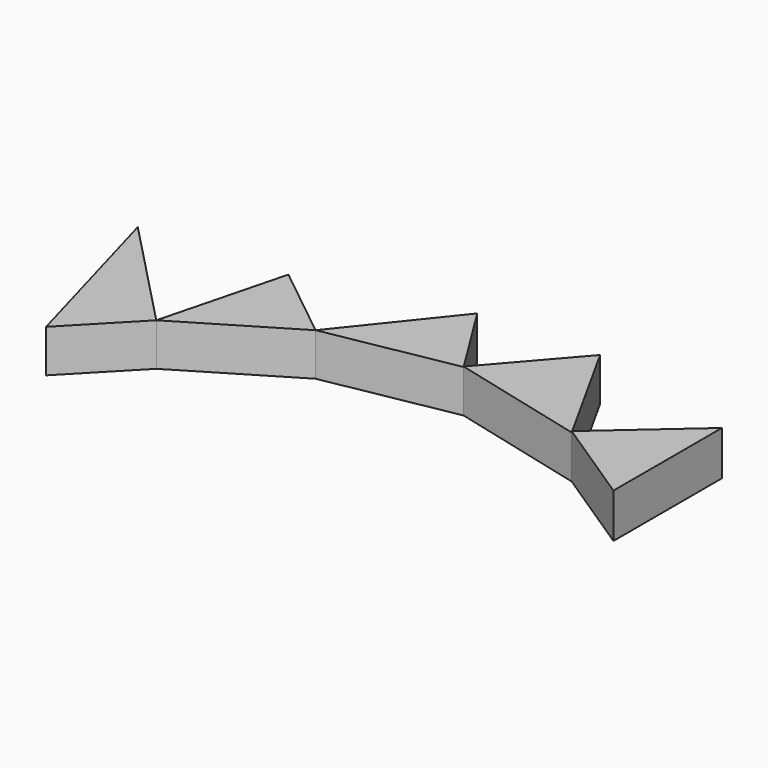
from build123d import *

# Parameters (mm, degrees)
F1_DEPTH = 6.54674
F2_DEPTH = 6.54673
F3_DEPTH = 6.54673
F4_DEPTH = 6.61096
F5_DEPTH = 6.79529


with BuildPart() as f1:
    # F0 (on Top) → F1 (new body)
    with BuildSketch(Plane.XY):
        Polygon((-48.928399, 55.503596), (-41.34484, 28.466551), (-32.112677, 38.028438), align=None)
    extrude(amount=F1_DEPTH)


with BuildPart() as f2:
    # F0 (on Top) → F2 (new body)
    with BuildSketch(Plane.XY):
        Polygon((-27.166875, 57.152204), (-32.112677, 38.028438), (-15.626675, 47.920037), align=None)
    extrude(amount=F2_DEPTH)


with BuildPart() as f3:
    # F0 (on Top) → F3 (new body)
    with BuildSketch(Plane.XY):
        Polygon((-3.242057, 63.400797), (-15.626675, 47.920037), (4.156529, 51.546957), align=None)
    extrude(amount=F3_DEPTH)


with BuildPart() as f4:
    # F0 (on Top) → F4 (new body)
    with BuildSketch(Plane.XY):
        Polygon((15.037294, 64.076327), (4.156529, 51.546957), (24.928892, 46.271436), align=None)
    extrude(amount=F4_DEPTH)


with BuildPart() as f5:
    # F0 (on Top) → F5 (new body)
    with BuildSketch(Plane.XY):
        Polygon((38.447417, 58.141362), (24.928892, 46.271436), (38.447417, 37.368998), align=None)
    extrude(amount=F5_DEPTH)


solid = Compound([f1.part, f2.part, f3.part, f4.part, f5.part])
